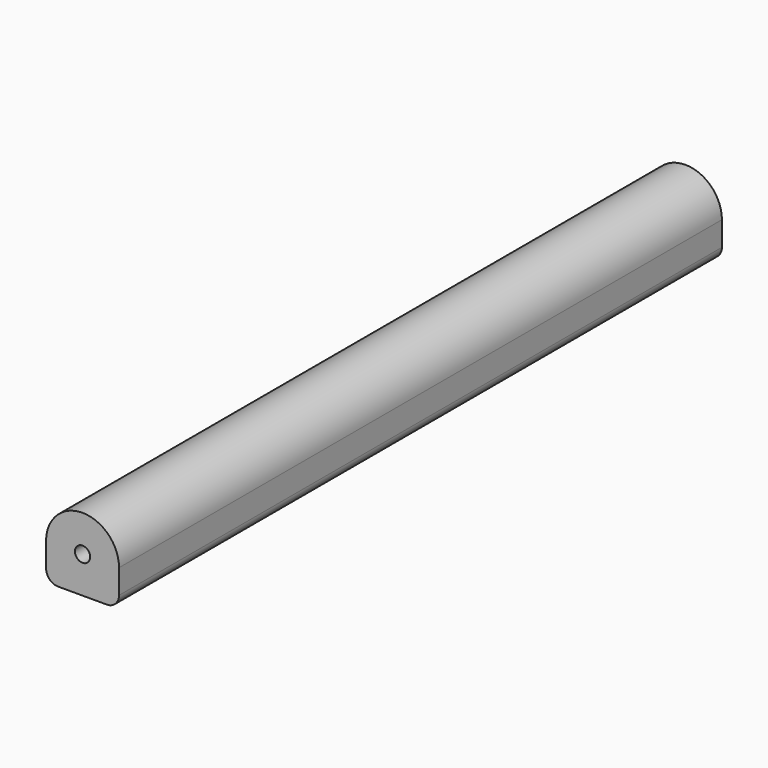
from build123d import *

# Parameters (mm, degrees)
F1_DEPTH       = 393.7
F4_D           = 7.9375
F4_DEPTH       = 25.4
F4_TIP         = 2.3846655818
F4_ON_F3_D     = 7.9375
F4_ON_F3_DEPTH = 25.4
F4_ON_F3_TIP   = 2.3846655818


with BuildPart() as f1:
    # F0 (on Front) → F1 (new body)
    with BuildSketch(Plane.XZ):
        with BuildLine():
            ThreePointArc((0, 6.35), (1.8598719395, 1.8598719395), (6.35, 0))
            Line((6.35, 0), (31.75, 0))
            ThreePointArc((31.75, 0), (36.2401280605, 1.8598719395), (38.1, 6.35))
            Line((38.1, 6.35), (38.1, 19.05))
            ThreePointArc((38.1, 19.05), (19.05, 38.1), (0, 19.05))
            Line((0, 19.05), (0, 6.35))
        make_face()
    extrude(amount=F1_DEPTH)

    # F4
    with Locations(Plane.XZ.offset(393.7)):
        with Locations((19.05, 19.05)):
            Hole(F4_D / 2, depth=F4_DEPTH)
            with Locations((0, 0, -(F4_DEPTH + F4_TIP / 2))):  # 118° drill point
                Cone(0, F4_D / 2, F4_TIP, mode=Mode.SUBTRACT)

    # F4 on F3
    with Locations(Plane(origin=(0, 0, 0), x_dir=(-1, 0, 0), z_dir=(0, 1, 0))):
        with Locations((-19.05, 19.05)):
            Hole(F4_ON_F3_D / 2, depth=F4_ON_F3_DEPTH)
            with Locations((0, 0, -(F4_ON_F3_DEPTH + F4_ON_F3_TIP / 2))):  # 118° drill point
                Cone(0, F4_ON_F3_D / 2, F4_ON_F3_TIP, mode=Mode.SUBTRACT)


solid = f1.part
